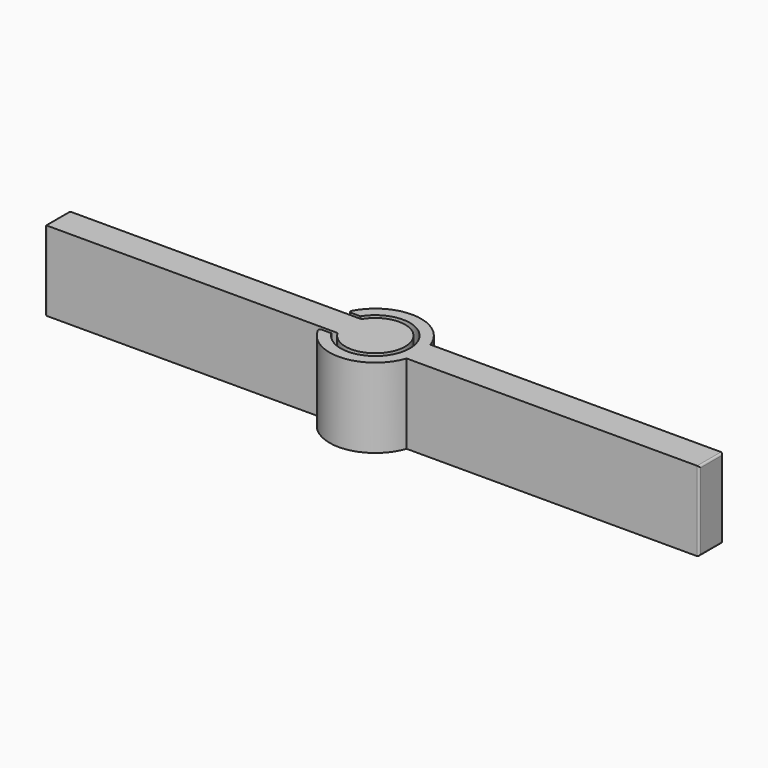
from build123d import *

# Parameters (mm, degrees)
F1_DEPTH = 6.35
F2_R     = 0.15875
F3_R     = 0.1524


with BuildPart() as f1:
    # F0 (on Top) → F1 (new body)
    with BuildSketch(Plane.XY):
        with BuildLine():
            Line((-2.062223, 1.190625), (-25.4, 1.190625))
            Line((-25.4, 1.190625), (-25.4, -1.190625))
            Line((-25.4, -1.190625), (-2.062223, -1.190625))
            ThreePointArc((-2.062223, -1.190625), (2.38125, 0), (-2.062223, 1.190625))
        make_face()
        with BuildLine():
            Line((26.789449, -1.190625), (26.789449, 1.190625))
            Line((26.789449, 1.190625), (3.451672, 1.190625))
            ThreePointArc((3.451672, 1.190625), (0.144835, 3.648376), (-3.346426, 1.4605))
            Line((-3.346426, 1.4605), (-2.344561, 1.4605))
            ThreePointArc((-2.344561, 1.4605), (2.76225, 0), (-2.344561, -1.4605))
            Line((-2.344561, -1.4605), (-3.346426, -1.4605))
            ThreePointArc((-3.346426, -1.4605), (0.144835, -3.648376), (3.451672, -1.190625))
            Line((3.451672, -1.190625), (26.789449, -1.190625))
        make_face()
    extrude(amount=F1_DEPTH)

    # F2
    f2_edges = [f1.edges().sort_by_distance(p)[0] for p in [
        (-3.346426, 1.4605, 3.175),
        (-3.346426, -1.4605, 3.175),
    ]]
    fillet(f2_edges, radius=F2_R)

    # F3
    f3_edges = [f1.edges().sort_by_distance(p)[0] for p in [
        (-25.4, 1.190625, 3.175),
        (-25.4, -1.190625, 3.175),
        (-25.4, 0, 0),
        (-25.4, 0, 6.35),
        (26.789449, -1.190625, 3.175),
        (26.789449, 1.190625, 3.175),
        (26.789449, 0, 0),
        (26.789449, 0, 6.35),
    ]]
    fillet(f3_edges, radius=F3_R)


solid = f1.part
